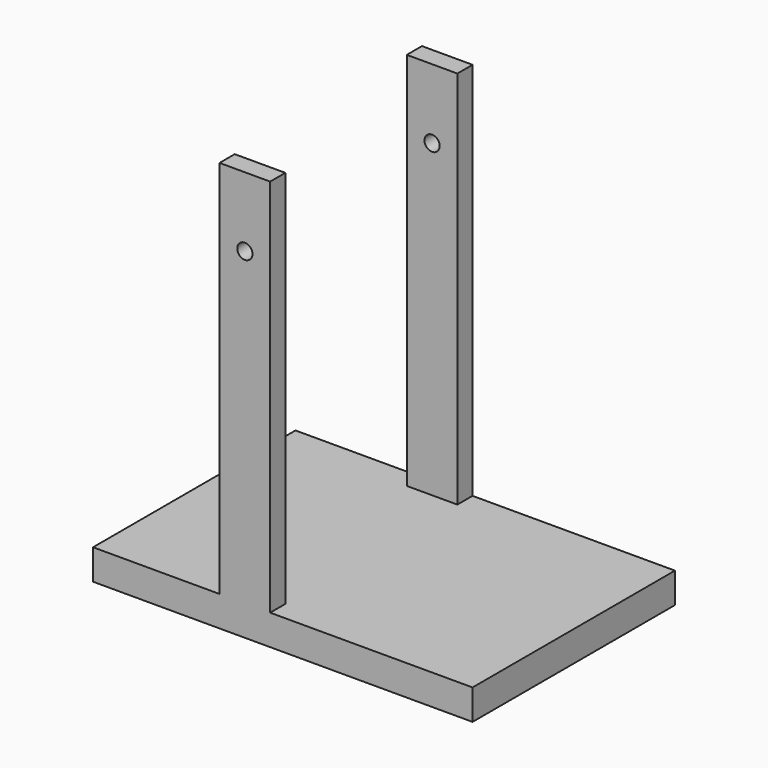
from build123d import *

# Parameters (mm, degrees)
F0_W     = 300
F0_H     = 24
F1_DEPTH = 100
F2_W     = 40
F2_H     = 15
F3_DEPTH = 300
F5_D     = 12


with BuildPart() as f1:
    # F0 (on Front) → F1 (new body, symmetric)
    with BuildSketch(Plane.XZ):
        with Locations((-5.195878, -20.055381)):
            Rectangle(F0_W, F0_H)
    extrude(amount=F1_DEPTH, both=True)

    # F2 (on face) → F3 (join)
    with BuildSketch(Plane.XY.offset(-8.055381)):
        with Locations((-35.195878, -92.5)):
            Rectangle(F2_W, F2_H)
        with Locations((-35.195878, 92.5)):
            Rectangle(F2_W, F2_H)
    extrude(amount=F3_DEPTH)

    # F5 (through all)
    with Locations(Plane.XZ.offset(100)):
        with Locations((-35.195878, 236.944619)):
            Hole(F5_D / 2)


solid = f1.part
